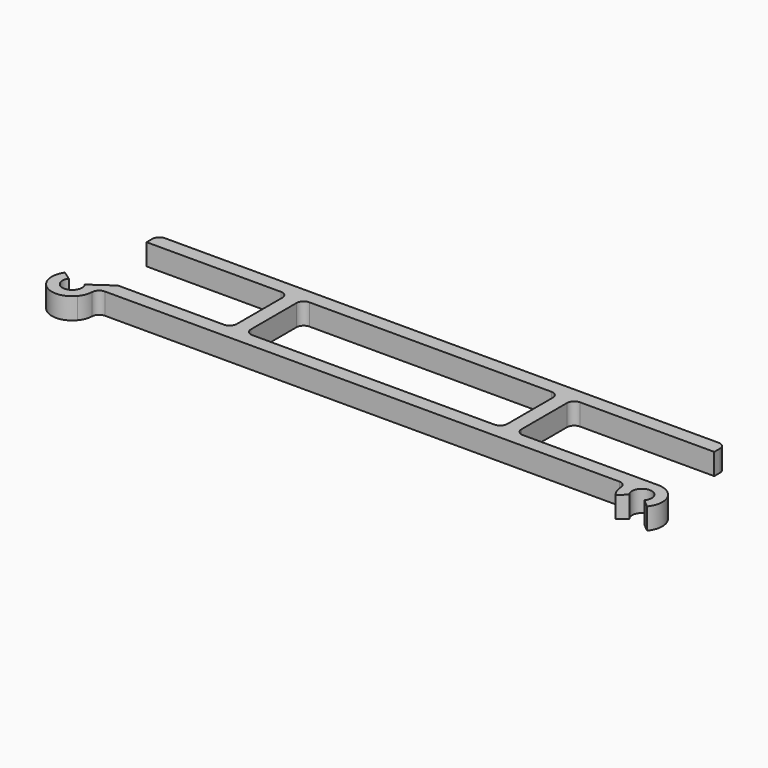
from build123d import *

# Parameters (mm, degrees)
F1_DEPTH = 3


with BuildPart() as f1:
    # F0 (on Top) → F1 (new body)
    with BuildSketch(Plane.XY):
        with BuildLine():
            ThreePointArc((-38.873666, 0.788668), (-38.626309, -0.059977), (-38.946689, -0.883833))
            ThreePointArc((-38.946689, -0.883833), (-40, -1.375), (-41.053311, -0.883833))
            ThreePointArc((-41.053311, -0.883833), (-41.373691, -0.059977), (-41.126334, 0.788668))
            Line((-41.126334, 0.788668), (-42.355062, 1.649032))
            ThreePointArc((-42.355062, 1.649032), (-42.872264, -0.125406), (-42.202378, -1.848014))
            ThreePointArc((-42.202378, -1.848014), (-40, -2.875), (-37.797622, -1.848014))
            ThreePointArc((-37.797622, -1.848014), (-37.314597, -1.02676), (-37.126496, -0.092742))
            ThreePointArc((-37.126496, -0.092742), (-36.822625, 0.593421), (-36.127017, 0.875))
            Line((-36.127017, 0.875), (0, 0.875))
            Line((0, 0.875), (36.127017, 0.875))
            ThreePointArc((36.127017, 0.875), (36.822625, 0.593421), (37.126496, -0.092742))
            ThreePointArc((37.126496, -0.092742), (37.314597, -1.02676), (37.797622, -1.848014))
            Line((37.797622, -1.848014), (38.946689, -0.883833))
            ThreePointArc((38.946689, -0.883833), (40, 1.375), (41.053311, -0.883833))
            Line((41.053311, -0.883833), (42.202378, -1.848014))
            ThreePointArc((42.202378, -1.848014), (42.605635, 1.215028), (40, 2.875))
            Line((40, 2.875), (21, 2.875))
            ThreePointArc((21, 2.875), (20.292893, 3.167893), (20, 3.875))
            Line((20, 3.875), (20, 11.875))
            ThreePointArc((20, 11.875), (20.292893, 12.582107), (21, 12.875))
            Line((21, 12.875), (39.865311, 12.875))
            Line((39.865311, 12.875), (39.865311, 13.875))
            ThreePointArc((39.865311, 13.875), (39.572418, 14.582107), (38.865311, 14.875))
            Line((38.865311, 14.875), (0.134689, 14.875))
            Line((0.134689, 14.875), (-0.134689, 14.875))
            Line((-0.134689, 14.875), (-38.865311, 14.875))
            ThreePointArc((-38.865311, 14.875), (-39.572418, 14.582107), (-39.865311, 13.875))
            Line((-39.865311, 13.875), (-39.865311, 12.875))
            Line((-39.865311, 12.875), (-21, 12.875))
            ThreePointArc((-21, 12.875), (-20.292893, 12.582107), (-20, 11.875))
            Line((-20, 11.875), (-20, 3.875))
            ThreePointArc((-20, 3.875), (-20.292893, 3.167893), (-21, 2.875))
            Line((-21, 2.875), (-35.894074, 2.875))
            Line((-35.894074, 2.875), (-37.644938, 1.649032))
            Line((-37.644938, 1.649032), (-38.873666, 0.788668))
        make_face()
        with BuildLine():
            ThreePointArc((-18, 11.875), (-17.707107, 12.582107), (-17, 12.875))
            Line((-17, 12.875), (0, 12.875))
            Line((0, 12.875), (17, 12.875))
            ThreePointArc((17, 12.875), (17.707107, 12.582107), (18, 11.875))
            Line((18, 11.875), (18, 3.875))
            ThreePointArc((18, 3.875), (17.707107, 3.167893), (17, 2.875))
            Line((17, 2.875), (0, 2.875))
            Line((0, 2.875), (-17, 2.875))
            ThreePointArc((-17, 2.875), (-17.707107, 3.167893), (-18, 3.875))
            Line((-18, 3.875), (-18, 11.875))
        make_face(mode=Mode.SUBTRACT)
    extrude(amount=F1_DEPTH)


solid = f1.part
